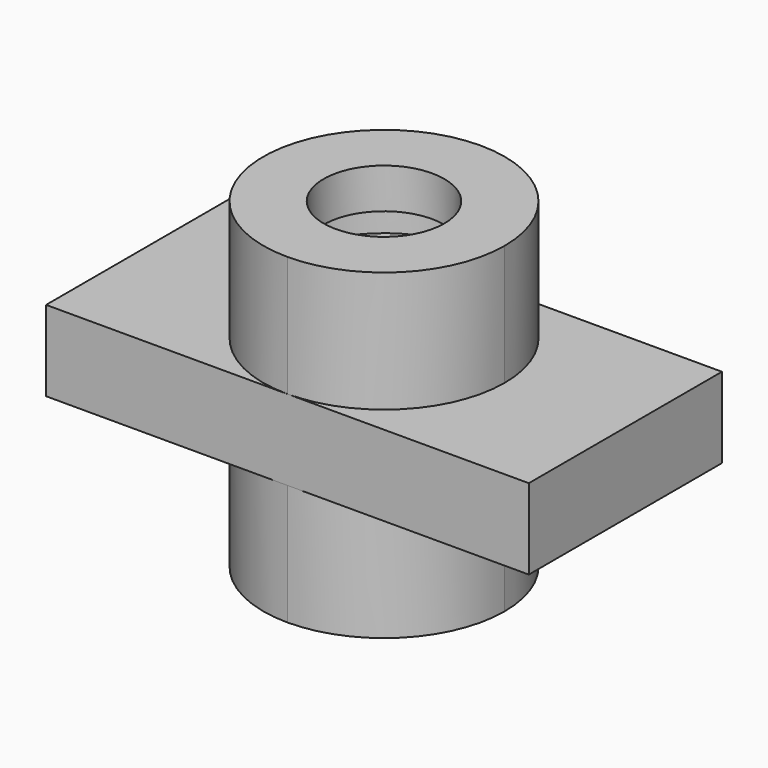
from build123d import *

# Parameters (mm, degrees)
F1_DEPTH = 25.4
F2_R     = 9.525
F3_DEPTH = 6.35
F4_R     = 15.875
F5_DEPTH = 6.35
F6_R     = 9.525
F7_DEPTH = 76.2
F8_DEPTH = 6.35


with BuildPart() as f1:
    # F0 (on Top) → F1 (new body, symmetric)
    with BuildSketch(Plane.XY):
        with BuildLine():
            ThreePointArc((0, -19.05), (13.470384, -13.470384), (19.05, 0))
            ThreePointArc((19.05, 0), (13.470384, 13.470384), (0, 19.05))
            ThreePointArc((0, 19.05), (-19.05, 0), (0, -19.05))
        make_face()
    extrude(amount=F1_DEPTH, both=True)

    # F2 (on face) → F3 (cut)
    with BuildSketch(Plane.XY.offset(12.7)):
        Circle(F2_R)
    extrude(amount=-F3_DEPTH, mode=Mode.SUBTRACT)

    # F4 (on face) → F5 (cut)
    with BuildSketch(Plane.XY.offset(19.05)):
        Circle(F4_R)
    extrude(amount=-F5_DEPTH, mode=Mode.SUBTRACT)

    # F6 (on face) → F7 (cut)
    with BuildSketch(Plane.XY.offset(25.4)):
        Circle(F6_R)
    extrude(amount=-F7_DEPTH, mode=Mode.SUBTRACT)

    # F0 (on Top) → F8 (join, symmetric)
    with BuildSketch(Plane.XY):
        with BuildLine():
            ThreePointArc((0, -19.05), (-19.05, 0), (0, 19.05))
            Line((0, 19.05), (-38.1, 19.05))
            Line((-38.1, 19.05), (-38.1, -19.05))
            Line((-38.1, -19.05), (0, -19.05))
        make_face()
        with BuildLine():
            ThreePointArc((0, 19.05), (13.470384, 13.470384), (19.05, 0))
            ThreePointArc((19.05, 0), (13.470384, -13.470384), (0, -19.05))
            Line((0, -19.05), (38.1, -19.05))
            Line((38.1, -19.05), (38.1, 19.05))
            Line((38.1, 19.05), (0, 19.05))
        make_face()
    extrude(amount=F8_DEPTH, both=True)


solid = f1.part
